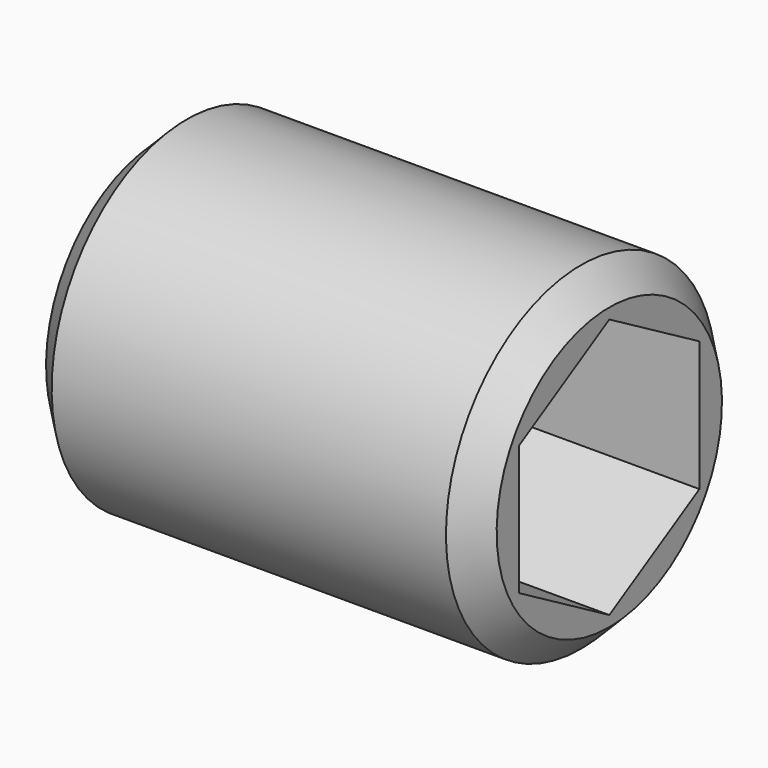
from build123d import *

# Parameters (mm, degrees)
CYLINDER006_R           = 1.5
CYLINDER006_DEPTH       = 4
CYLINDER006_PITCH_ANGLE = 90
CHAMFER002_SIZE         = 0.25
POCKET_DEPTH            = 2.5


with BuildPart() as part:
    # Cylinder006 → Cylinder006 (new body)
    with BuildSketch(Plane.XY):
        Circle(CYLINDER006_R)
    extrude(amount=CYLINDER006_DEPTH)


with BuildPart() as part_1:
    # Cylinder006 pitch: moved
    add(part.part.rotate(Axis((0, 0, 0), (0, 1, 0)), CYLINDER006_PITCH_ANGLE))


with BuildPart() as part_2:
    # Cylinder006 placement: moved
    add(part_1.part.moved(Location((3, 0, 2.6))))

    # Chamfer002
    chamfer002_edges = [part_2.edges().sort_by_distance(p)[0] for p in [
        (7, 0, 4.1),
        (3, 0, 4.1),
    ]]
    chamfer(chamfer002_edges, length=CHAMFER002_SIZE)

    # Sketch (on Face5 of Chamfer002) → Pocket (cut)
    with BuildSketch(Plane.YZ.offset(7)):
        Polygon((-1, 3.17735), (0, 3.754701), (1, 3.17735), (1, 2.02265), (0, 1.445299), (-1, 2.02265), align=None)
    extrude(amount=-POCKET_DEPTH, mode=Mode.SUBTRACT)


solid = part_2.part
